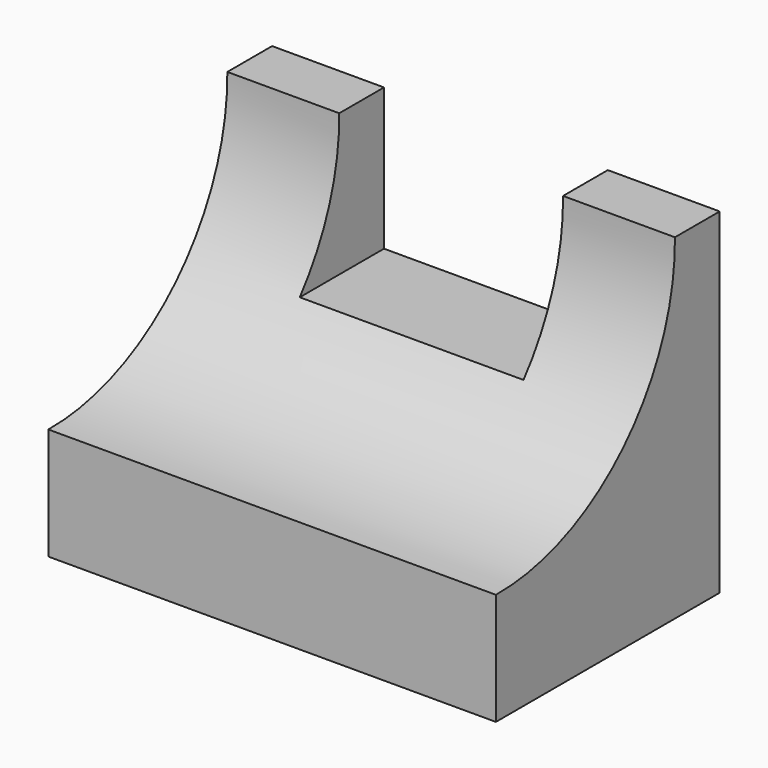
from build123d import *

# Parameters (mm, degrees)
F0_W     = 50.8
F0_H     = 38.1
F1_DEPTH = 31.75
F2_W     = 25.4
F2_H     = 16.111437
F3_DEPTH = 12.7
F5_DEPTH = 50.801


with BuildPart() as f1:
    # F0 (on Front) → F1 (new body)
    with BuildSketch(Plane.XZ):
        with Locations((25.4, 19.05)):
            Rectangle(F0_W, F0_H)
    extrude(amount=F1_DEPTH)

    # F2 (on face) → F3 (cut)
    with BuildSketch(Plane(origin=(0, 0, 0), x_dir=(-1, 0, 0), z_dir=(0, 1, 0))):
        with Locations((-25.4, 30.044282)):
            Rectangle(F2_W, F2_H)
    extrude(amount=-F3_DEPTH, mode=Mode.SUBTRACT)

    # F4 (on face) → F5 (cut, through all)
    with BuildSketch(Plane.YZ.offset(50.8)):
        with BuildLine():
            Line((-31.75, 38.1), (-31.75, 12.7))
            ThreePointArc((-31.75, 12.7), (-13.699472, 20.049472), (-6.35, 38.1))
            Line((-6.35, 38.1), (-31.75, 38.1))
        make_face()
    extrude(amount=-F5_DEPTH, mode=Mode.SUBTRACT)


solid = f1.part
